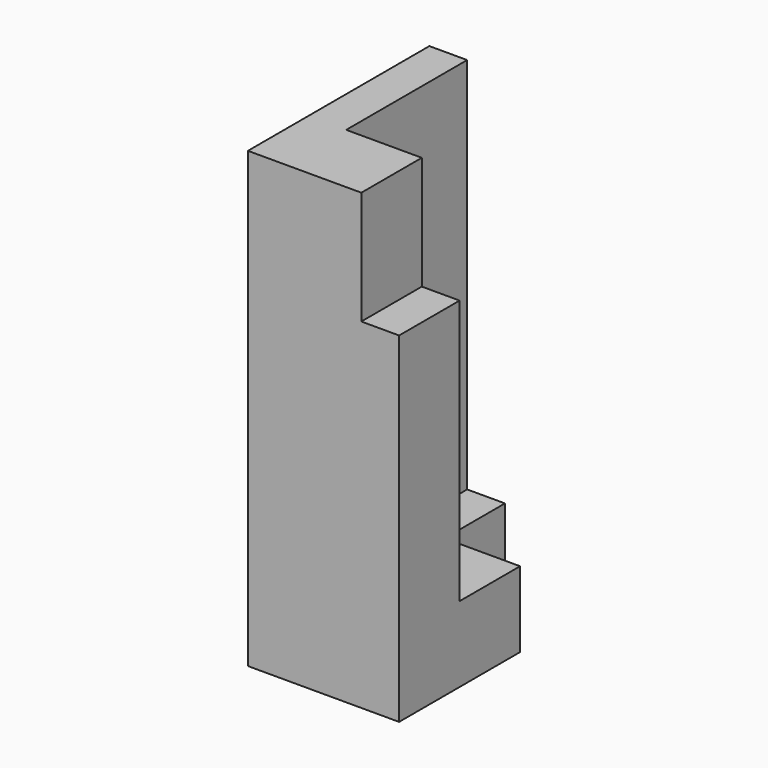
from build123d import *

# Parameters (mm, degrees)
F0_W     = 10
F0_H     = 40
F0_H_2   = 20
F1_DEPTH = 120
F2_DEPTH = 30
F3_DEPTH = 100


with BuildPart() as f1:
    # F0 (on Top) → F1 (new body)
    with BuildSketch(Plane.XY):
        with Locations((5, 40)):
            Rectangle(F0_W, F0_H)
        Polygon((10, 20), (30, 20), (40, 20), (40, 40), (20, 40), (20, 60), (10, 60), align=None)
        with Locations((35, 10)):
            Rectangle(F0_W, F0_H_2)
        Polygon((0, 20), (0, 0), (30, 0), (30, 20), (10, 20), align=None)
    extrude(amount=-F1_DEPTH)

    # F0 (on Top) → F2 (cut)
    with BuildSketch(Plane.XY):
        with Locations((35, 10)):
            Rectangle(F0_W, F0_H_2)
        Polygon((10, 20), (30, 20), (40, 20), (40, 40), (20, 40), (20, 60), (10, 60), align=None)
    extrude(amount=-F2_DEPTH, mode=Mode.SUBTRACT)

    # F0 (on Top) → F3 (cut)
    with BuildSketch(Plane.XY):
        Polygon((10, 20), (30, 20), (40, 20), (40, 40), (20, 40), (20, 60), (10, 60), align=None)
    extrude(amount=-F3_DEPTH, mode=Mode.SUBTRACT)


solid = f1.part
